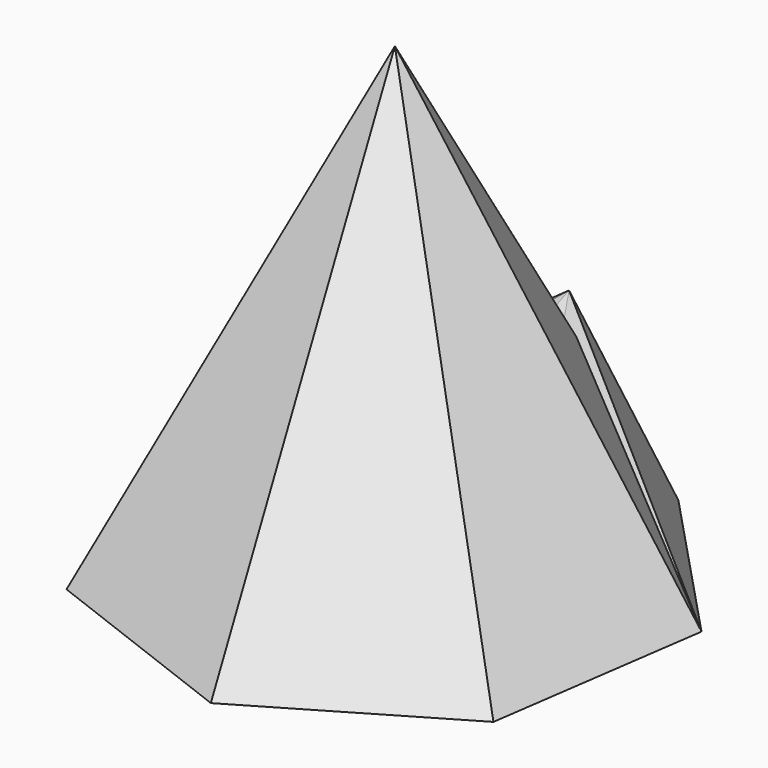
from build123d import *


with BuildPart() as f3:
    # F0 (on Top) → F3 section 0
    with BuildSketch(Plane.XY, mode=Mode.PRIVATE) as f3_s0:
        Polygon((23.117897, 60.300896), (-32.731365, 55.671293), (-63.933242, 9.120072), (-46.992084, -44.29875), (5.335072, -64.359709), (53.64481, -35.956495), (61.558912, 19.522694), align=None)
    loft([Vertex(-20.908881, 26.270848, 100), f3_s0.sketch])


with BuildPart() as f5:
    # F3_face (on face) → F5 section 0
    with BuildSketch(Plane(origin=(0, 0, 0), x_dir=(1, 0, 0), z_dir=(0, 0, -1)), mode=Mode.PRIVATE) as f5_s0:
        Polygon((-63.933242, -9.120072), (-32.731365, -55.671293), (23.117897, -60.300896), (61.558912, -19.522694), (53.64481, 35.956495), (5.335072, 64.359709), (-46.992084, 44.29875), align=None)
    loft([Vertex(0, 54.858372, 41.116301), f5_s0.sketch])


solid = Compound([f3.part, f5.part])
